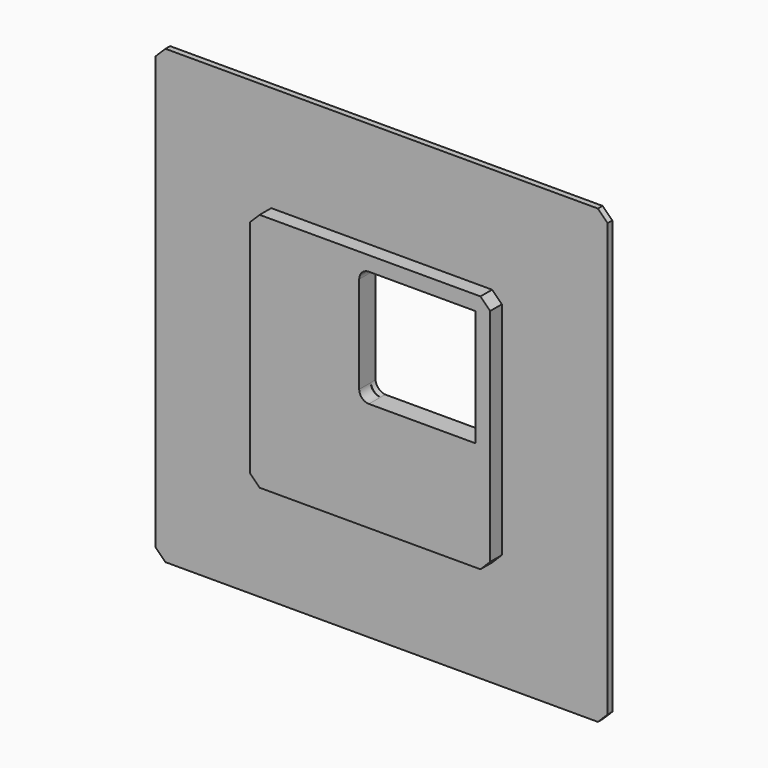
from build123d import *

# Parameters (mm, degrees)
SKETCH008_W     = 24.77
SKETCH008_H     = 24.77
PAD004_DEPTH    = 1.5
SKETCH009_W     = 46.6
SKETCH009_H     = 46.6
PAD005_DEPTH    = 0.6
CHAMFER001_SIZE = 1


with BuildPart() as part:
    # Sketch008 → Pad004 (new body)
    with BuildSketch(Plane.XZ.offset(-662.6)):
        Rectangle(SKETCH008_W, SKETCH008_H)
        with BuildLine():
            Line((-0.115186, -1.115), (10.885, -1.115))
            Line((10.885, -1.115), (10.885, 10.885))
            Line((10.885, 10.885), (-0.115186, 10.885))
            ThreePointArc((-0.115186, 10.885), (-0.822161, 10.592161), (-1.115, 9.885186))
            Line((-1.115, 9.885186), (-1.115, -0.115186))
            ThreePointArc((-1.115, -0.115186), (-0.822161, -0.822161), (-0.115186, -1.115))
        make_face(mode=Mode.SUBTRACT)
    extrude(amount=PAD004_DEPTH)

    # Sketch009 (on Face11 of Pad004) → Pad005 (join)
    with BuildSketch(Plane(origin=(0, 662.6, 0), x_dir=(1, 0, 0), z_dir=(0, 1, 0))):
        Rectangle(SKETCH009_W, SKETCH009_H)
        with BuildLine():
            ThreePointArc((-0.115186, 1.115), (-0.79262, 0.79262), (-1.115, 0.115186))
            Line((-1.115, 0.115186), (-1.115, -9.885186))
            ThreePointArc((-1.115, -9.885186), (-0.79262, -10.56262), (-0.115186, -10.885))
            Line((10.885, -10.885), (-0.115186, -10.885))
            Line((10.885, 1.115), (10.885, -10.885))
            Line((-0.115186, 1.115), (10.885, 1.115))
        make_face(mode=Mode.SUBTRACT)
    extrude(amount=PAD005_DEPTH)

    # Chamfer001
    chamfer001_edges = [part.edges().sort_by_distance(p)[0] for p in [
        (12.385, 661.85, 12.385),
        (-12.385, 661.85, 12.385),
        (-12.385, 661.85, -12.385),
        (12.385, 661.85, -12.385),
        (23.3, 662.9, 23.3),
        (-23.3, 662.9, 23.3),
        (23.3, 662.9, -23.3),
        (-23.3, 662.9, -23.3),
    ]]
    chamfer(chamfer001_edges, length=CHAMFER001_SIZE)


solid = part.part
